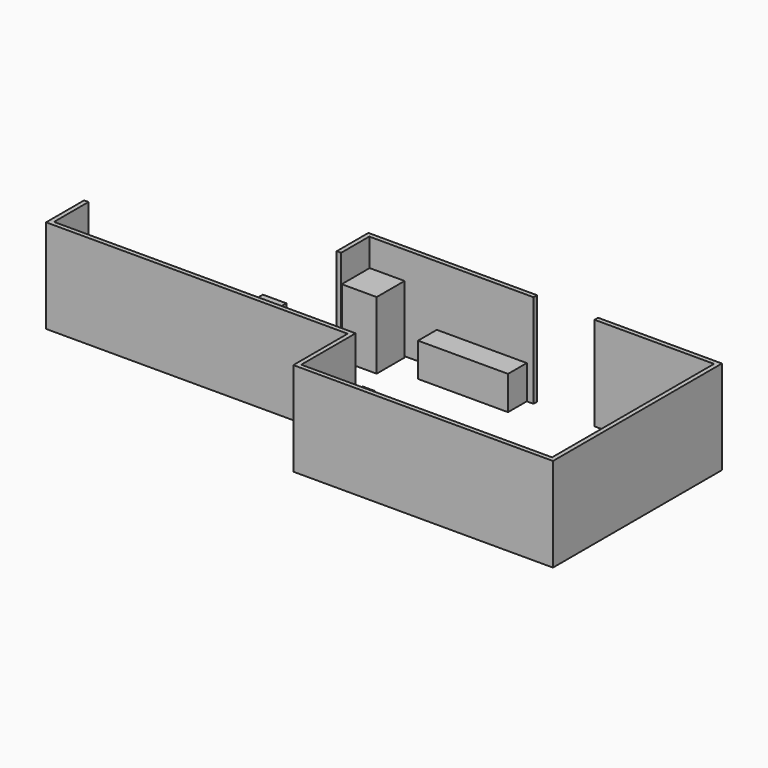
from build123d import *

# Parameters (mm, degrees)
F1_DEPTH = 2438.4
F0_W     = 2438.4
F0_H     = 114.3
F0_W_2   = 609.6
F0_W_3   = 114.3
F0_W_4   = 4672.0504365921
F0_H_2   = 1650.155569458
F0_W_5   = 6516.2164274216
F0_H_3   = 5256.955569458
F0_W_6   = 3101.8743515015
F2_W     = 906.526
F2_H     = 906.526
F3_DEPTH = 1752.6
F4_W     = 914.4
F4_H     = 609.6
F4_W_2   = 304.8
F5_DEPTH = 876.3
F4_W_3   = 406.4
F4_W_4   = 609.6
F6_W     = 609.6
F6_H     = 609.6
F7_DEPTH = 2133.6


with BuildPart() as f1:
    # F0 (on Top) → F1 (new body)
    with BuildSketch(Plane.XY):
        Polygon((-1443.8976049423, 1261.6094749451), (-1558.1976049423, 1261.6094749451), (-1558.1976049423, 232.9094749451), (-1443.8976049423, 232.9094749451), (-1443.8976049423, 1147.3094749451), (2823.3023950577, 1147.3094749451), (2823.3023950577, 1261.6094749451), align=None)
    extrude(amount=F1_DEPTH)


with BuildPart() as f1b:
    # F0 (on Top) → F1, piece 2 (new body)
    with BuildSketch(Plane.XY):
        with Locations((-338.9976049423, -2402.3405250549)):
            Rectangle(F0_W, F0_H)
        with Locations((-1862.9976049423, -2402.3405250549)):
            Rectangle(F0_W_2, F0_H)
        with Locations((937.3523950577, -2402.3405250549)):
            Rectangle(F0_W_3, F0_H)
        with Locations((-4503.8228232384, -2402.3405250549)):
            Rectangle(F0_W_4, F0_H)
        with Locations((937.3523950577, -3284.5683097839)):
            Rectangle(F0_W_3, F0_H_2)
        Polygon((-6839.8480415344, -2459.4905250549), (-6839.8480415344, -2345.1905250549), (-6839.8480415344, -1226.0105609894), (-6954.1480415344, -1226.0105609894), (-6954.1480415344, -2459.4905250549), align=None)
        with Locations((937.3523950577, -4166.7960945129)):
            Rectangle(F0_W_3, F0_H)
        with Locations((4252.6106087685, -4166.7960945129)):
            Rectangle(F0_W_5, F0_H)
        with Locations((7567.8688224792, -4166.7960945129)):
            Rectangle(F0_W_3, F0_H)
        with Locations((7567.8688224792, -1481.1683097839)):
            Rectangle(F0_W_3, F0_H_3)
        with Locations((7567.8688224792, 1204.4594749451)):
            Rectangle(F0_W_3, F0_H)
        with Locations((5959.7816467285, 1204.4594749451)):
            Rectangle(F0_W_6, F0_H)
    extrude(amount=F1_DEPTH)


with BuildPart() as f3:
    # F2 (on Top) → F3 (new body)
    with BuildSketch(Plane.XY):
        with Locations((-942.6910877228, 646.7741727829)):
            Rectangle(F2_W, F2_H)
    extrude(amount=F3_DEPTH)


with BuildPart() as f5:
    # F4 (on Top) → F5 (new body)
    with BuildSketch(Plane.XY):
        with Locations((-529.4976049423, -2040.3905250549)):
            Rectangle(F4_W, F4_H)
        with Locations((-1139.0976049423, -2040.3905250549)):
            Rectangle(F4_W_2, F4_H)
    extrude(amount=F5_DEPTH)


with BuildPart() as f5b:
    # F4 (on Top) → F5, piece 2 (new body)
    with BuildSketch(Plane.XY):
        with Locations((842.1023950577, -2040.3905250549)):
            Rectangle(F4_W_2, F4_H)
    extrude(amount=F5_DEPTH)


with BuildPart() as f5c:
    # F4 (on Top) → F5, piece 3 (new body)
    with BuildSketch(Plane.XY):
        with Locations((513.8719122772, 842.5094749451)):
            Rectangle(F4_W_3, F4_H)
        with Locations((1174.2719122772, 842.5094749451)):
            Rectangle(F4_W, F4_H)
        with Locations((1834.6719122772, 842.5094749451)):
            Rectangle(F4_W_3, F4_H)
        with Locations((2342.6719122772, 842.5094749451)):
            Rectangle(F4_W_4, F4_H)
    extrude(amount=F5_DEPTH)


with BuildPart() as f7:
    # F6 (on Top) → F7 (new body)
    with BuildSketch(Plane.XY):
        with Locations((-1596.2976049423, -2040.3905250549)):
            Rectangle(F6_W, F6_H)
    extrude(amount=F7_DEPTH)


solid = Compound([f1.part, f1b.part, f3.part, f5.part, f5b.part, f5c.part, f7.part])
